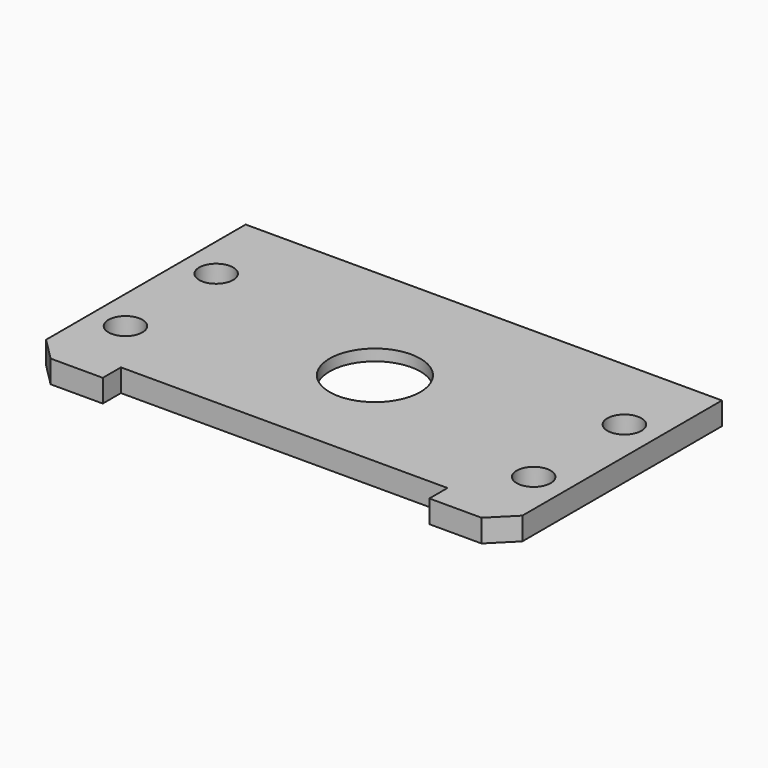
from build123d import *

# Parameters (mm, degrees)
CYLINDER1760_R               = 9
CYLINDER1760_DEPTH           = 4
CYLINDER1760_PLACEMENT_ANGLE = 225
BOX711_W                     = 28.8
BOX711_H                     = 2
BOX711_DEPTH                 = 4
COMPOUND890_PLACEMENT_ANGLE  = 225
CYLINDER1692_R               = 1.5
CYLINDER1692_DEPTH           = 60
CYLINDER1689_R               = 1.5
CYLINDER1689_DEPTH           = 60
CYLINDER1690_R               = 1.5
CYLINDER1690_DEPTH           = 60
CYLINDER1691_R               = 1.5
CYLINDER1691_DEPTH           = 60
COMPOUND833_PLACEMENT_ANGLE  = 225
CYLINDER2367_R               = 4
CYLINDER2367_DEPTH           = 4
CYLINDER2367_PLACEMENT_ANGLE = 225
BOX930_W                     = 42
BOX930_H                     = 24
BOX930_DEPTH                 = 2
COMPOUND818_PLACEMENT_ANGLE  = 225
CHAMFER058_SIZE              = 2
CHAMFER058_ROLL_ANGLE        = 180
CHAMFER058_PLACEMENT_ANGLE   = -135.000066


with BuildPart() as obj1:
    # Cylinder1760 → Cylinder1760 (new body)
    with BuildSketch(Plane.XY):
        Circle(CYLINDER1760_R)
    extrude(amount=CYLINDER1760_DEPTH)


with BuildPart() as obj1_1:
    # Cylinder1760 placement: moved
    add(obj1.part.moved(Location((63.64, -63.64, 64))).rotate(Axis((63.64, -63.64, 64), (0, 0, 1)), CYLINDER1760_PLACEMENT_ANGLE))


with BuildPart() as compound890:
    # Box711 → Box711 (new body)
    with BuildSketch(Plane(origin=(-14.4, 10, 24), x_dir=(1, 0, 0), z_dir=(0, 0, 1))):
        with Locations((14.4, 1)):
            Rectangle(BOX711_W, BOX711_H)
    extrude(amount=BOX711_DEPTH)


with BuildPart() as compound890_1:
    # Compound890 placement: moved
    add(compound890.part.moved(Location((63.64, -63.64, 38))).rotate(Axis((63.64, -63.64, 38), (0, 0, 1)), COMPOUND890_PLACEMENT_ANGLE))


with BuildPart() as obj2:
    # Cylinder1692 → Cylinder1692 (new body)
    with BuildSketch(Plane(origin=(18, 85, -57), x_dir=(1, 0, 0), z_dir=(0, 0, 1))):
        Circle(CYLINDER1692_R)
    extrude(amount=CYLINDER1692_DEPTH)


with BuildPart() as obj3:
    # Cylinder1689 → Cylinder1689 (new body)
    with BuildSketch(Plane(origin=(-18, 85, -57), x_dir=(1, 0, 0), z_dir=(0, 0, 1))):
        Circle(CYLINDER1689_R)
    extrude(amount=CYLINDER1689_DEPTH)


with BuildPart() as obj4:
    # Cylinder1690 → Cylinder1690 (new body)
    with BuildSketch(Plane(origin=(-18, 95, -57), x_dir=(1, 0, 0), z_dir=(0, 0, 1))):
        Circle(CYLINDER1690_R)
    extrude(amount=CYLINDER1690_DEPTH)


with BuildPart() as compound833:
    # Cylinder1691 → Cylinder1691 (new body)
    with BuildSketch(Plane(origin=(18, 95, -57), x_dir=(1, 0, 0), z_dir=(0, 0, 1))):
        Circle(CYLINDER1691_R)
    extrude(amount=CYLINDER1691_DEPTH)

    # Compound833: union obj2, obj3, obj4
    add(obj2.part)
    add(obj3.part)
    add(obj4.part)


with BuildPart() as compound833_1:
    # Compound833 placement: moved
    add(compound833.part.moved(Location((0, 0, 100))).rotate(Axis((0, 0, 100), (0, 0, 1)), COMPOUND833_PLACEMENT_ANGLE))


with BuildPart() as obj5:
    # Cylinder2367 → Cylinder2367 (new body)
    with BuildSketch(Plane.XY):
        Circle(CYLINDER2367_R)
    extrude(amount=CYLINDER2367_DEPTH)


with BuildPart() as obj5_1:
    # Cylinder2367 placement: moved
    add(obj5.part.moved(Location((63.64, -63.64, 76))).rotate(Axis((63.64, -63.64, 76), (0, 0, 1)), CYLINDER2367_PLACEMENT_ANGLE))


with BuildPart() as g_mini_encoder_washer:
    # Box930 → Box930 (new body)
    with BuildSketch(Plane(origin=(-21, -12, 34), x_dir=(1, 0, 0), z_dir=(0, 0, 1))):
        with Locations((21, 12)):
            Rectangle(BOX930_W, BOX930_H)
    extrude(amount=BOX930_DEPTH)


with BuildPart() as g_mini_encoder_washer_1:
    # Compound818 placement: moved
    add(g_mini_encoder_washer.part.moved(Location((63.64, -63.64, 42))).rotate(Axis((63.64, -63.64, 42), (0, 0, 1)), COMPOUND818_PLACEMENT_ANGLE))

    # Cut472: cut obj5
    add(obj5_1.part, mode=Mode.SUBTRACT)


with BuildPart() as g_mini_encoder_washer_2:
    # Cut472 placement: moved
    add(g_mini_encoder_washer_1.part.moved(Location((0, 0, -10))))

    # Cut481: cut Compound833
    add(compound833_1.part, mode=Mode.SUBTRACT)


with BuildPart() as g_mini_encoder_washer_3:
    # Cut481 placement: moved
    add(g_mini_encoder_washer_2.part.moved(Location((0, 0, -3))))

    # Cut522: cut Compound890
    add(compound890_1.part, mode=Mode.SUBTRACT)

    # Cut523: cut obj1
    add(obj1_1.part, mode=Mode.SUBTRACT)

    # Chamfer058
    chamfer058_edges = [g_mini_encoder_washer_3.edges().sort_by_distance(p)[0] for p in [
        (86.974524, -57.276039, 64),
        (57.276039, -86.974524, 64),
    ]]
    chamfer(chamfer058_edges, length=CHAMFER058_SIZE)


with BuildPart() as g_mini_encoder_washer_4:
    # Chamfer058 roll: moved
    add(g_mini_encoder_washer_3.part.rotate(Axis((0, 0, 0), (1, 0, 0)), CHAMFER058_ROLL_ANGLE))


with BuildPart() as g_mini_encoder_washer_5:
    # Chamfer058 placement: moved
    add(g_mini_encoder_washer_4.part.moved(Location((0, 6, 48))).rotate(Axis((0, 6, 48), (0, 0, 1)), CHAMFER058_PLACEMENT_ANGLE))


solid = g_mini_encoder_washer_5.part
